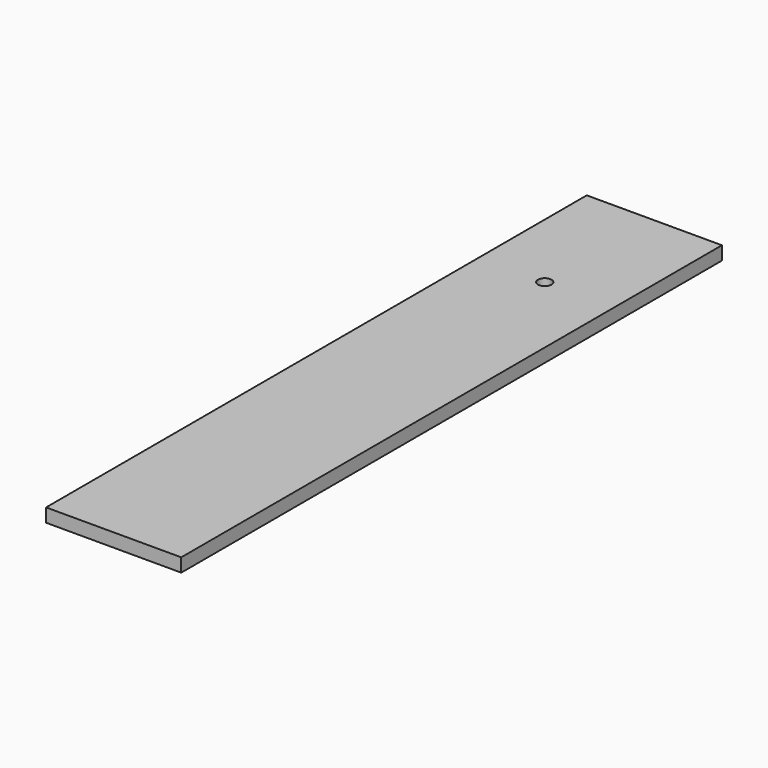
from build123d import *

# Parameters (mm, degrees)
SKETCH_W  = 50
SKETCH_H  = 250
SKETCH_R  = 2.5
PAD_DEPTH = 5


with BuildPart() as part:
    # Sketch → Pad (new body)
    with BuildSketch(Plane.XY):
        with Locations((0.540698, 66.239895)):
            Rectangle(SKETCH_W, SKETCH_H)
        with Locations((0, 141.239895)):
            Circle(SKETCH_R, mode=Mode.SUBTRACT)
    extrude(amount=PAD_DEPTH)


solid = part.part
